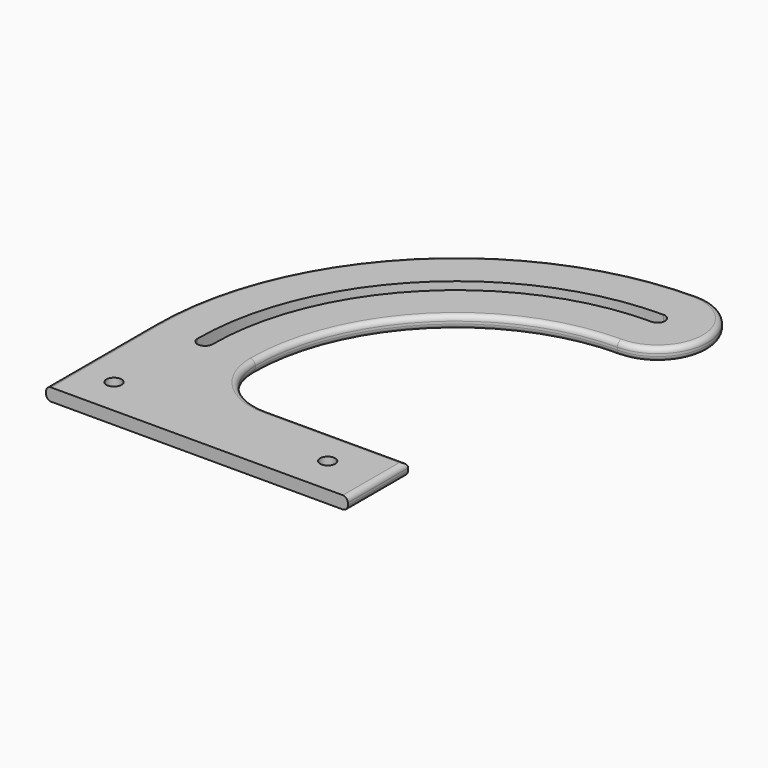
from build123d import *

# Parameters (mm, degrees)
PAD_DEPTH    = 5
SKETCH001_R  = 3
HOLE_DEPTH   = 5.001
POCKET_DEPTH = 5.001
FILLET_R     = 2


with BuildPart() as part:
    # Sketch → Pad (new body)
    with BuildSketch(Plane.XY):
        with BuildLine():
            Line((0, 0), (120, 0))
            Line((120, 0), (120, 30))
            Line((120, 30), (64, 30))
            ThreePointArc((40, 54), (47.029437, 37.029437), (64, 30))
            ThreePointArc((120, 134), (63.431458, 110.568542), (40, 54))
            ThreePointArc((120, 134), (140, 154), (120, 174))
            ThreePointArc((120, 174), (35.147186, 138.852814), (0, 54))
            Line((0, 0), (0, 54))
        make_face()
    extrude(amount=PAD_DEPTH)

    # Sketch001 (on Face10 of Pad) → Hole (cut, through all)
    with BuildSketch(Plane.XY.offset(5)):
        with Locations((15, 15)):
            Circle(SKETCH001_R)
        with Locations((100, 15)):
            Circle(SKETCH001_R)
    extrude(amount=-HOLE_DEPTH, mode=Mode.SUBTRACT)

    # Sketch002 (on Face5 of Hole) → Pocket (cut, through all)
    with BuildSketch(Plane.XY.offset(5)):
        with BuildLine():
            ThreePointArc((120, 157), (47.168002, 126.831998), (17, 54))
            ThreePointArc((17, 54), (20, 51), (23, 54))
            ThreePointArc((120, 151), (51.410642, 122.589358), (23, 54))
            ThreePointArc((120, 151), (123, 154), (120, 157))
        make_face()
    extrude(amount=-POCKET_DEPTH, mode=Mode.SUBTRACT)

    # Fillet
    fillet_edges = [part.edges().sort_by_distance(p)[0] for p in [
        (92, 30, 5),
        (92, 30, 0),
        (47.029437, 37.029437, 5),
        (63.431458, 110.568542, 5),
        (140, 154, 5),
        (35.147186, 138.852814, 5),
        (0, 27, 5),
        (47.029437, 37.029437, 0),
        (63.431458, 110.568542, 0),
        (140, 154, 0),
        (35.147186, 138.852814, 0),
        (0, 27, 0),
        (120, 15, 0),
        (120, 15, 5),
    ]]
    fillet(fillet_edges, radius=FILLET_R)


solid = part.part
